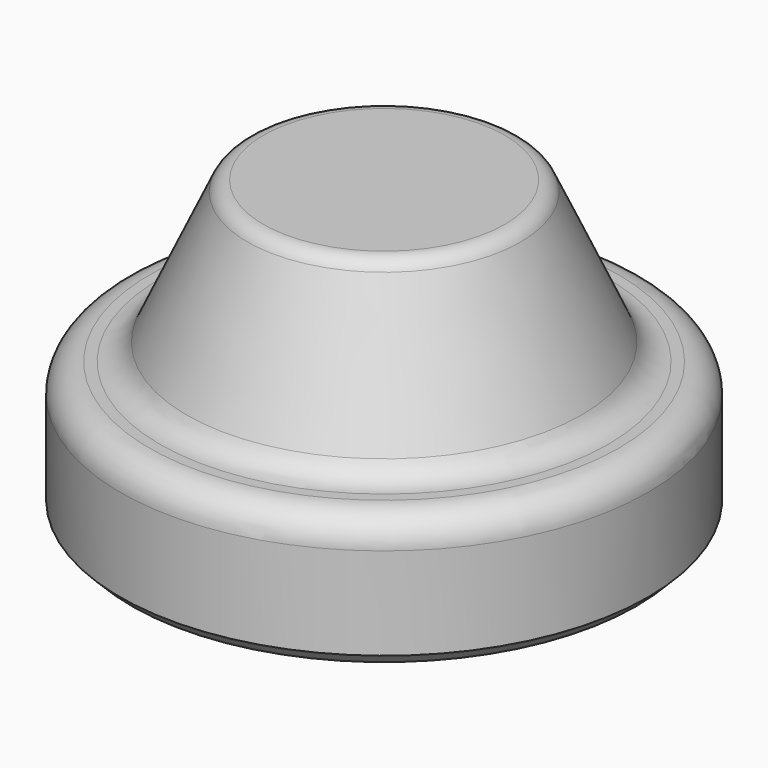
from build123d import *

# Parameters (mm, degrees)
F2_SIZE = 2


with BuildPart() as f1:
    # F0 (on Front) → F1 (revolve)
    with BuildSketch(Plane.XZ):
        with BuildLine():
            Line((20.574933, 50), (0, 50))
            Line((0, 50), (0, 0))
            Line((0, 0), (45, 0))
            Line((45, 0), (45, 17.72822))
            ThreePointArc((45, 17.72822), (43.535534, 21.263754), (40, 22.72822))
            Line((40, 22.72822), (38.208445, 22.72822))
            ThreePointArc((38.208445, 22.72822), (35.508136, 23.520093), (33.663148, 25.644886))
            Line((33.663148, 25.644886), (23.302111, 48.25))
            ThreePointArc((23.302111, 48.25), (22.195118, 49.524876), (20.574933, 50))
        make_face()
    revolve(axis=Axis((0, 0, 11.618854), (0, 0, -1)))

    # F2
    f2_edges = [f1.edges().sort_by_distance(p)[0] for p in [
        (-45, 0, 0),
    ]]
    chamfer(f2_edges, length=F2_SIZE)


solid = f1.part
